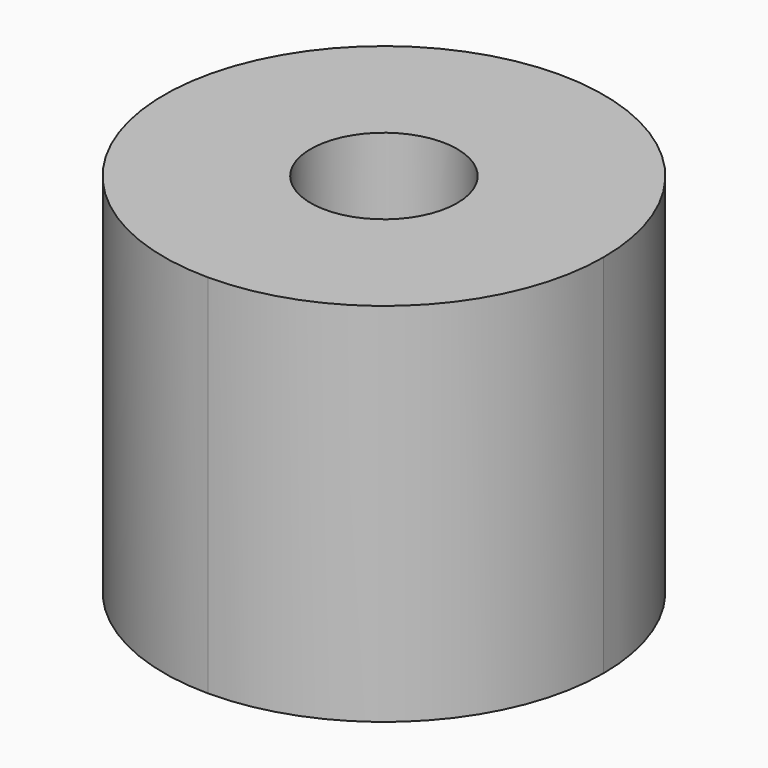
from build123d import *

# Parameters (mm, degrees)
F1_DEPTH = 10
F2_R     = 2
F3_DEPTH = 5
F4_W     = 10
F4_H     = 2.5
F5_DEPTH = 3


with BuildPart() as f1:
    # F0 (on Top) → F1 (new body)
    with BuildSketch(Plane.XY):
        with BuildLine():
            ThreePointArc((0, -6), (4.242641, -4.242641), (6, 0))
            ThreePointArc((6, 0), (4.242641, 4.242641), (0, 6))
            Line((0, 6), (0, -6))
        make_face()
        with BuildLine():
            Line((0, -6), (0, 6))
            ThreePointArc((0, 6), (-6, 0), (0, -6))
        make_face()
    extrude(amount=F1_DEPTH)

    # F2 (on face) → F3 (cut)
    with BuildSketch(Plane.XY.offset(10)):
        Circle(F2_R)
    extrude(amount=-F3_DEPTH, mode=Mode.SUBTRACT)

    # F4 (on face) → F5 (cut)
    with BuildSketch(Plane(origin=(0, 0, 0), x_dir=(1, 0, 0), z_dir=(0, 0, -1))):
        Rectangle(F4_W, F4_H)
    extrude(amount=-F5_DEPTH, mode=Mode.SUBTRACT)


solid = f1.part
